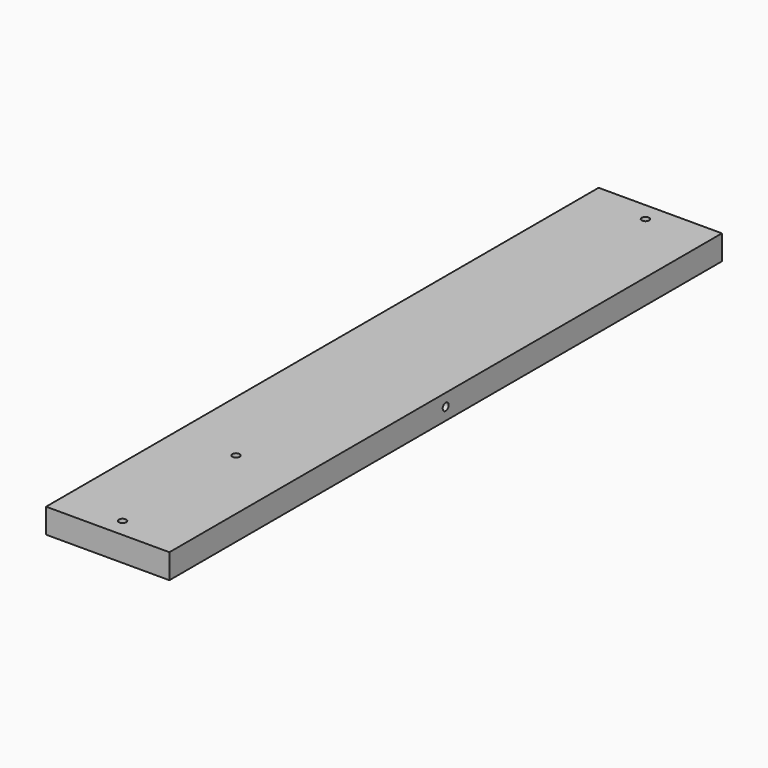
from build123d import *

# Parameters (mm, degrees)
F0_W     = 100
F0_H     = 560
F1_DEPTH = 20
F2_R     = 3
F3_DEPTH = 12
F4_R     = 3
F5_DEPTH = 12
F6_R     = 3
F7_DEPTH = 12
F8_R     = 3
F9_DEPTH = 12


with BuildPart() as f1:
    # F0 (on Top) → F1 (new body)
    with BuildSketch(Plane.XY):
        with Locations((50, 280)):
            Rectangle(F0_W, F0_H)
    extrude(amount=F1_DEPTH)

    # F2 (on face) → F3 (cut)
    with BuildSketch(Plane.XY.offset(20)):
        with Locations((50, 15)):
            Circle(F2_R)
    extrude(amount=-F3_DEPTH, mode=Mode.SUBTRACT)

    # F4 (on face) → F5 (cut)
    with BuildSketch(Plane.XY.offset(20)):
        with Locations((50, 545)):
            Circle(F4_R)
    extrude(amount=-F5_DEPTH, mode=Mode.SUBTRACT)

    # F6 (on face) → F7 (cut)
    with BuildSketch(Plane.XY.offset(20)):
        with Locations((50, 130)):
            Circle(F6_R)
    extrude(amount=-F7_DEPTH, mode=Mode.SUBTRACT)

    # F8 (on face) → F9 (cut)
    with BuildSketch(Plane.YZ.offset(100)):
        with Locations((280, 10)):
            Circle(F8_R)
    extrude(amount=-F9_DEPTH, mode=Mode.SUBTRACT)


solid = f1.part
